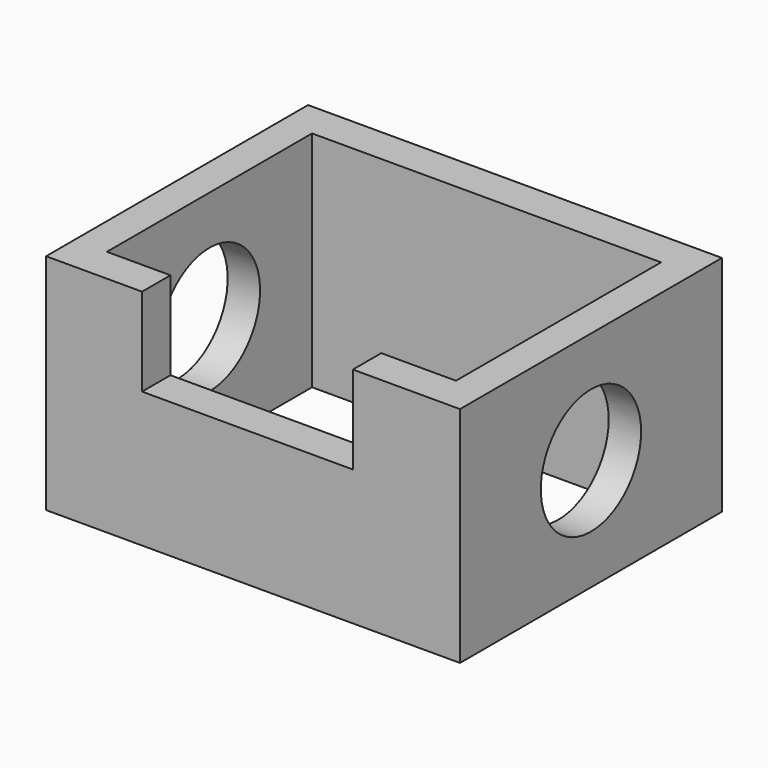
from build123d import *

# Parameters (mm, degrees)
F0_W     = 119.480312
F0_H     = 94.520986
F0_W_2   = 100.755788
F0_H_2   = 74.011498
F1_DEPTH = 64.516
F2_W     = 60.856506
F2_H     = 10.254744
F3_DEPTH = 25.4
F4_R     = 18.095764
F5_DEPTH = 25.4
F6_R     = 18.255686
F7_DEPTH = 25.4


with BuildPart() as f1:
    # F0 (on Top) → F1 (new body)
    with BuildSketch(Plane.XY):
        Rectangle(F0_W, F0_H)
        Rectangle(F0_W_2, F0_H_2, mode=Mode.SUBTRACT)
    extrude(amount=F1_DEPTH)

    # F2 (on face) → F3 (cut)
    with BuildSketch(Plane.XY.offset(64.516)):
        with Locations((-1.609653, -42.133121)):
            Rectangle(F2_W, F2_H)
    extrude(amount=-F3_DEPTH, mode=Mode.SUBTRACT)

    # F4 (on face) → F5 (cut)
    with BuildSketch(Plane.YZ.offset(59.740156)):
        with Locations((0, 32.258)):
            Circle(F4_R)
    extrude(amount=-F5_DEPTH, mode=Mode.SUBTRACT)

    # F6 (on face) → F7 (cut)
    with BuildSketch(Plane(origin=(-59.740156, 0, 0), x_dir=(0, -1, 0), z_dir=(-1, 0, 0))):
        with Locations((0, 32.258)):
            Circle(F6_R)
    extrude(amount=-F7_DEPTH, mode=Mode.SUBTRACT)


solid = f1.part
